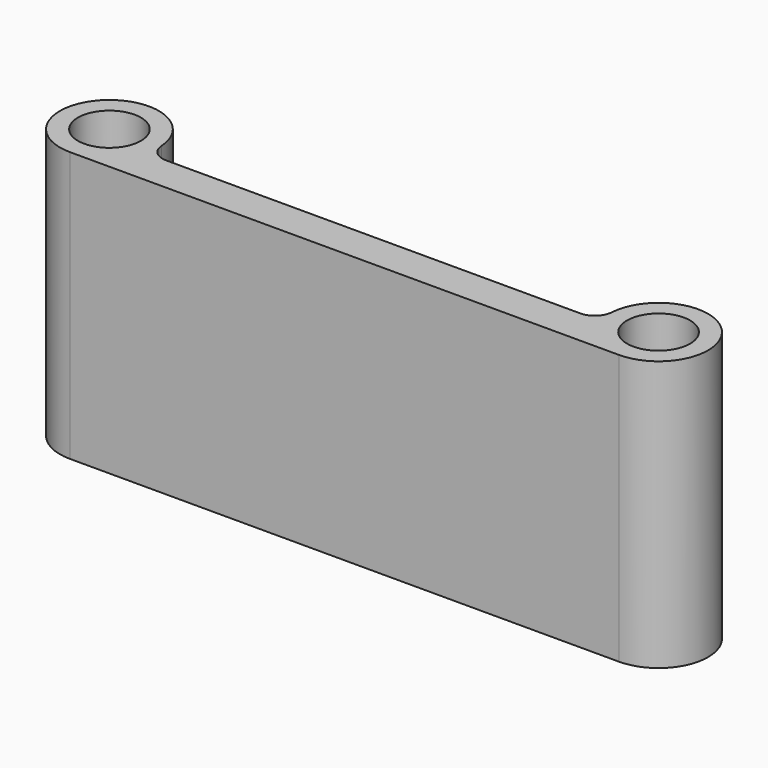
from build123d import *

# Parameters (mm, degrees)
F0_R     = 1.75
F1_DEPTH = 15


with BuildPart() as f1:
    # F0 (on Top) → F1 (new body)
    with BuildSketch(Plane.XY):
        with BuildLine():
            ThreePointArc((-11.508343, 2), (-12.191473, 2.269703), (-12.506118, 2.933333))
            ThreePointArc((-12.506118, 2.933333), (-17.258316, 4.628607), (-15.25, 0))
            Line((-15.25, 0), (15.25, 0))
            ThreePointArc((15.25, 0), (17.258316, 4.628608), (12.506118, 2.933333))
            ThreePointArc((12.506118, 2.933333), (12.191472, 2.269703), (11.508342, 2))
            Line((11.508342, 2), (-11.508343, 2))
        make_face()
        with Locations((-15.25, 2.75)):
            Circle(F0_R, mode=Mode.SUBTRACT)
        with Locations((15.25, 2.75)):
            Circle(F0_R, mode=Mode.SUBTRACT)
    extrude(amount=F1_DEPTH)


solid = f1.part
